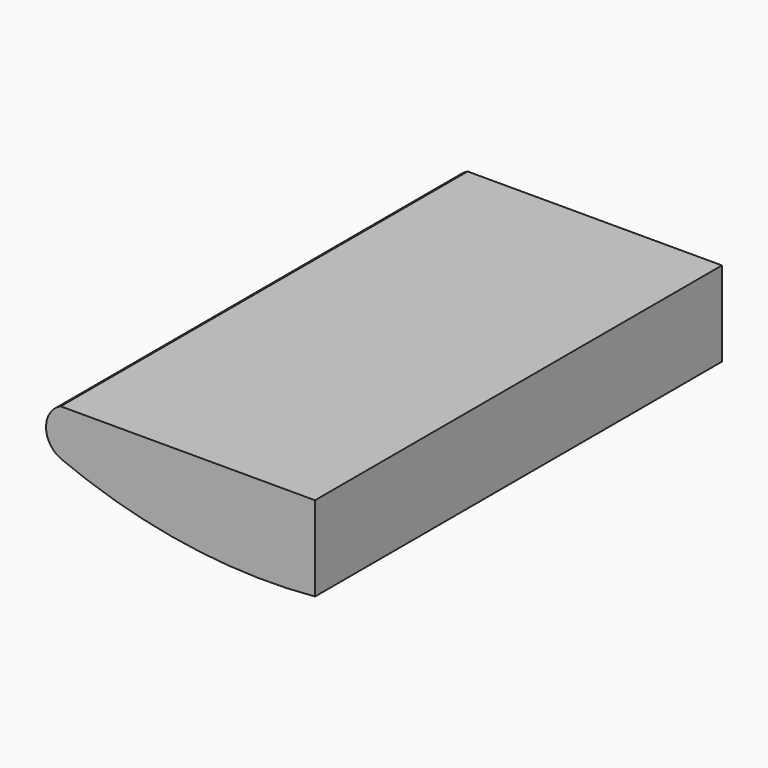
from build123d import *

# Parameters (mm, degrees)
F1_DEPTH = 60
F2_DEPTH = 42
F3_DEPTH = 42


with BuildPart() as f1:
    # F0 (on Front) → F1 (new body)
    with BuildSketch(Plane.XZ):
        with BuildLine():
            ThreePointArc((-9, 1.369445934), (-4.5828518842, 0.1402203037), (0, 0))
            Line((0, 0), (0, 3))
            Line((0, 3), (-9, 3))
            ThreePointArc((-9, 3), (-9.5190631598, 2.184722967), (-9, 1.369445934))
        make_face()
    extrude(amount=F1_DEPTH)

    # F2 (add): a face of the model
    f2_faces = [f1.faces().sort_by_distance(p)[0] for p in [
        (-4.2472237482, -60, 1.6364055224),
    ]]
    extrude(f2_faces, amount=-F2_DEPTH)

    # F3 (cut): a face of the model
    f3_faces = [f1.faces().sort_by_distance(p)[0] for p in [
        (-4.2472237482, -60, 1.6364055224),
    ]]
    extrude(f3_faces, amount=-F3_DEPTH, mode=Mode.SUBTRACT)


solid = f1.part
